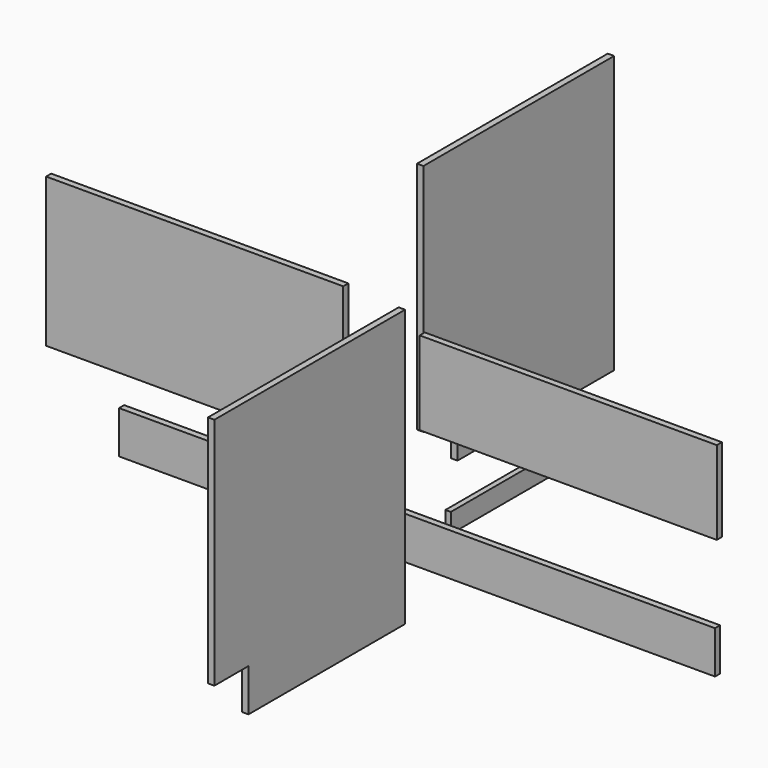
from build123d import *

# Parameters (mm, degrees)
F1_DEPTH  = 15
F2_W      = 1400
F2_H      = 100
F3_DEPTH  = 15
F5_DEPTH  = 7.5
F6_W      = 698
F6_H      = 350
F7_DEPTH  = 15
F8_W      = 698
F8_H      = 196
F9_DEPTH  = 15
F10_W     = 500
F10_H     = 45.7
F11_DEPTH = 12.7


with BuildPart() as f1:
    # F0 (on Right) → F1 (new body)
    with BuildSketch(Plane.YZ):
        Polygon((560, 650), (0, 650), (0, 100), (100, 100), (100, 0), (560, 0), align=None)
    extrude(amount=F1_DEPTH)


with BuildPart() as f3:
    # F2 (on Front) → F3 (new body)
    with BuildSketch(Plane.XZ):
        with Locations((0, -133.072823)):
            Rectangle(F2_W, F2_H)
    extrude(amount=-F3_DEPTH)


with BuildPart() as f5:
    # F4 (on Right) → F5 (new body, symmetric)
    with BuildSketch(Plane.YZ):
        Polygon((-44.482949, 368.552807), (-604.482949, 368.552807), (-604.482949, -181.447193), (-504.482949, -181.447193), (-504.482949, -281.447193), (-44.482949, -281.447193), align=None)
    extrude(amount=F5_DEPTH, both=True)


with BuildPart() as f7:
    # F6 (on Front) → F7 (new body)
    with BuildSketch(Plane.XZ):
        with Locations((-510.4049, 175)):
            Rectangle(F6_W, F6_H)
    extrude(amount=F7_DEPTH)


with BuildPart() as f9:
    # F8 (on Front) → F9 (new body)
    with BuildSketch(Plane.XZ):
        with Locations((367.171761, 208.890735)):
            Rectangle(F8_W, F8_H)
    extrude(amount=F9_DEPTH)


with BuildPart() as f11:
    # F10 (on Right) → F11 (new body)
    with BuildSketch(Plane.YZ):
        with Locations((333.24014, -122.797173)):
            Rectangle(F10_W, F10_H)
    extrude(amount=F11_DEPTH)


solid = Compound([f1.part, f3.part, f5.part, f7.part, f9.part, f11.part])
